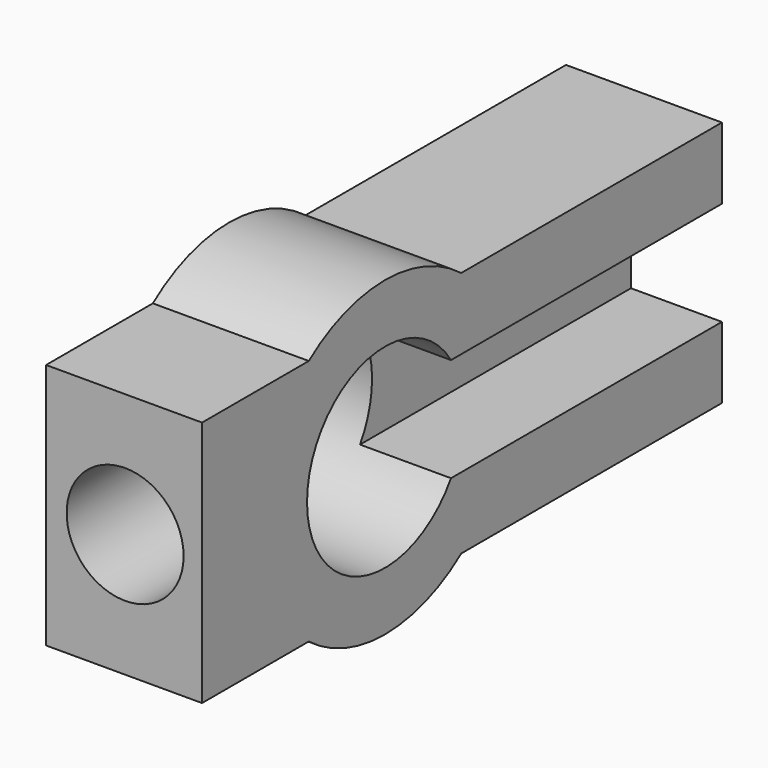
from build123d import *

# Parameters (mm, degrees)
F0_W      = 24
F0_H      = 38
F1_DEPTH  = 100
F3_R      = 24
F4_DEPTH  = 24
F5_R      = 15
F6_DEPTH  = 25
F7_DEPTH  = 25
F9_DEPTH  = 14
F10_DEPTH = 25
F11_R     = 9
F12_DEPTH = 25


with BuildPart() as f1:
    # F0 (on Front) → F1 (new body)
    with BuildSketch(Plane.XZ):
        Rectangle(F0_W, F0_H)
    extrude(amount=-F1_DEPTH)

    # F3 (on face) → F4 (join)
    with BuildSketch(Plane.YZ.offset(12)):
        with Locations((35.1973697543, 0)):
            Circle(F3_R)
    extrude(amount=-F4_DEPTH)

    # F5 (on face) → F6 (cut)
    with BuildSketch(Plane.YZ.offset(12)):
        with Locations((35.1973697543, 0)):
            Circle(F5_R)
    extrude(amount=-F6_DEPTH, mode=Mode.SUBTRACT)

    # F7 (add): a face of the model
    f7_faces = [f1.faces().sort_by_distance(p)[0] for p in [
        (12, 52.2784311764, 0),
    ]]
    extrude(f7_faces, amount=F7_DEPTH)

    # F8 (on face) → F9 (cut)
    with BuildSketch(Plane.YZ.offset(37)):
        with BuildLine():
            Line((47.8859472948, -8), (100, -8))
            Line((100, -8), (100, 8))
            Line((100, 8), (47.8859472948, 8))
            ThreePointArc((47.8859472948, 8), (49.6079329478, 4.1636124275), (50.1973697543, 0))
            ThreePointArc((50.1973697543, 0), (49.6079329478, -4.1636124275), (47.8859472948, -8))
        make_face()
    extrude(amount=-F9_DEPTH, mode=Mode.SUBTRACT)

    # F10 (cut): a face of the model
    f10_faces = [f1.faces().sort_by_distance(p)[0] for p in [
        (-12, 52.2784311764, 0),
    ]]
    extrude(f10_faces, amount=-F10_DEPTH, mode=Mode.SUBTRACT)

    # F11 (on face) → F12 (cut)
    with BuildSketch(Plane.XZ):
        with Locations((25.1644738019, 0)):
            Circle(F11_R)
    extrude(amount=-F12_DEPTH, mode=Mode.SUBTRACT)


solid = f1.part
